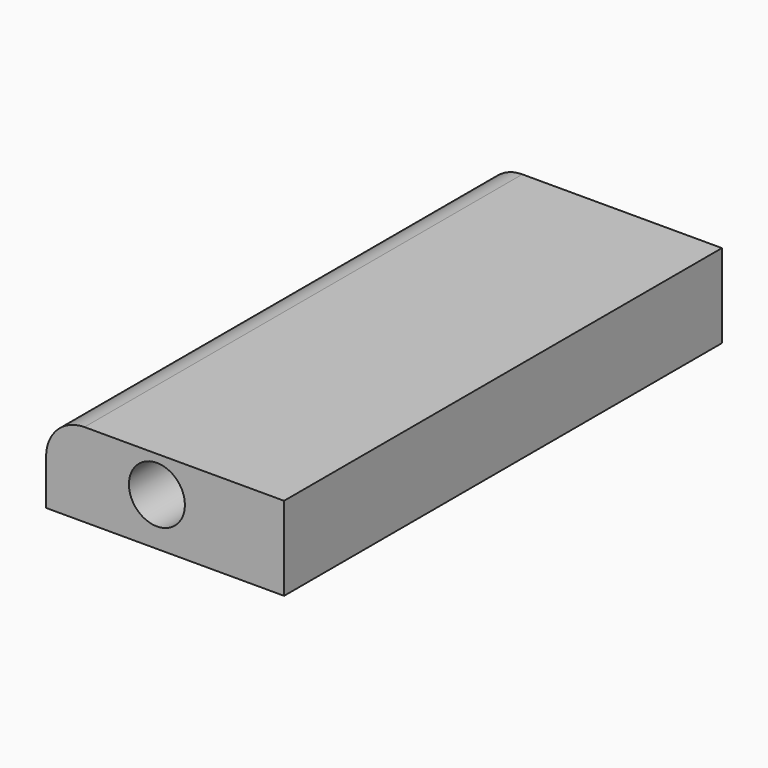
from build123d import *

# Parameters (mm, degrees)
F0_W     = 54.485863
F0_H     = 19.160416
F0_R     = 6.40756
F1_DEPTH = 125.30254
F2_R     = 8.789693


with BuildPart() as f1:
    # F0 (on Front) → F1 (new body)
    with BuildSketch(Plane.XZ):
        with Locations((1.870436, -44.420557)):
            Rectangle(F0_W, F0_H)
        with Locations((0, -43.069407)):
            Circle(F0_R, mode=Mode.SUBTRACT)
    extrude(amount=F1_DEPTH)

    # F2
    f2_edges = [f1.edges().sort_by_distance(p)[0] for p in [
        (-25.372496, -62.65127, -34.840349),
    ]]
    fillet(f2_edges, radius=F2_R)


solid = f1.part
